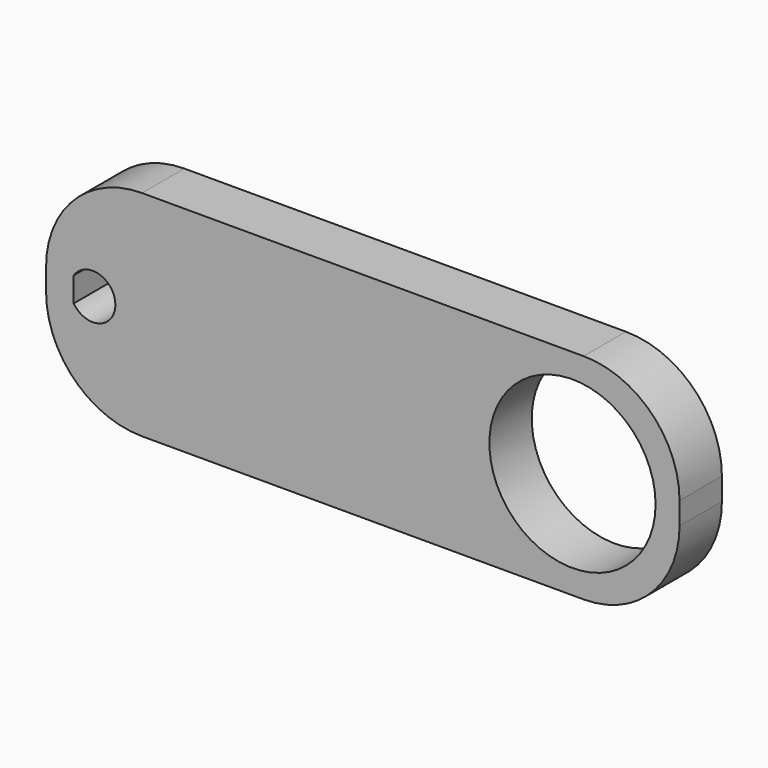
from build123d import *

# Parameters (mm, degrees)
F0_W     = 83.8454
F0_H     = 28.3464
F0_R     = 10.9982
F1_DEPTH = 3.5052
F2_R     = 12.7


with BuildPart() as f1:
    # F0 (on Front) → F1 (new body, symmetric)
    with BuildSketch(Plane.XZ):
        with Locations((4.0005, 0)):
            Rectangle(F0_W, F0_H)
        with BuildLine():
            ThreePointArc((-34.2646, 1.630949), (-30.899574, 2.874019), (-28.7528, 0))
            ThreePointArc((-28.7528, 0), (-30.899574, -2.874019), (-34.2646, -1.630949))
            ThreePointArc((-34.2646, -1.630949), (-34.7472, 0), (-34.2646, 1.630949))
        make_face(mode=Mode.SUBTRACT)
        with Locations((31.75, 0)):
            Circle(F0_R, mode=Mode.SUBTRACT)
        with BuildLine():
            Line((-34.2646, -1.630949), (-34.2646, 1.630949))
            ThreePointArc((-34.2646, 1.630949), (-34.7472, 0), (-34.2646, -1.630949))
        make_face()
    extrude(amount=F1_DEPTH, both=True)

    # F2
    f2_edges = [f1.edges().sort_by_distance(p)[0] for p in [
        (-37.9222, 0, 14.1732),
        (-37.9222, 0, -14.1732),
        (45.9232, 0, 14.1732),
        (45.9232, 0, -14.1732),
    ]]
    fillet(f2_edges, radius=F2_R)


solid = f1.part
